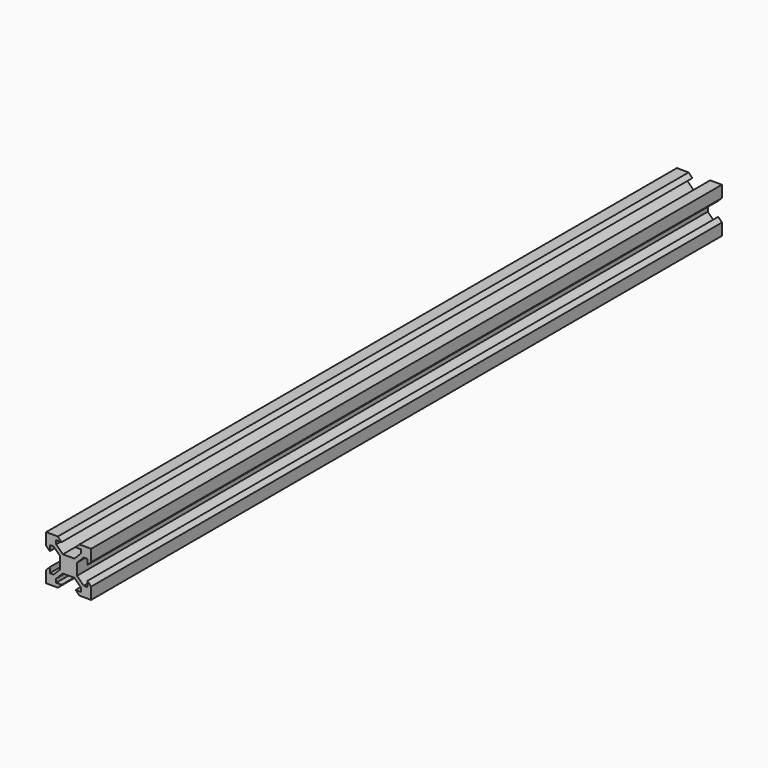
from build123d import *

# Parameters (mm, degrees)
F1_DEPTH = 175


with BuildPart() as f1:
    # F0 (on Front) → F1 (new body, symmetric)
    with BuildSketch(Plane.XZ):
        Polygon((-4.775, 10), (-10, 10), (-10, 4.775), (-8.325, 3.1), (-8.325, 5.5), (-6.684404, 5.5), (-3.75, 2.565596), (-3.75, 0), (-3.75, -2.565596), (-6.684404, -5.5), (-8.325, -5.5), (-8.325, -3.1), (-10, -4.775), (-10, -10), (-4.775, -10), (-3.1, -8.325), (-5.5, -8.325), (-5.5, -6.684404), (-2.565596, -3.75), (0, -3.75), (2.565596, -3.75), (5.5, -6.684404), (5.5, -8.325), (3.1, -8.325), (4.775, -10), (10, -10), (10, -4.775), (8.325, -3.1), (8.325, -5.5), (6.684404, -5.5), (3.75, -2.565596), (3.75, 0), (3.75, 2.565596), (6.684404, 5.5), (8.325, 5.5), (8.325, 3.1), (10, 4.775), (10, 10), (4.775, 10), (3.1, 8.325), (5.5, 8.325), (5.5, 6.684404), (2.565596, 3.75), (0, 3.75), (-2.565596, 3.75), (-5.5, 6.684404), (-5.5, 8.325), (-3.1, 8.325), align=None)
    extrude(amount=F1_DEPTH, both=True)


solid = f1.part
